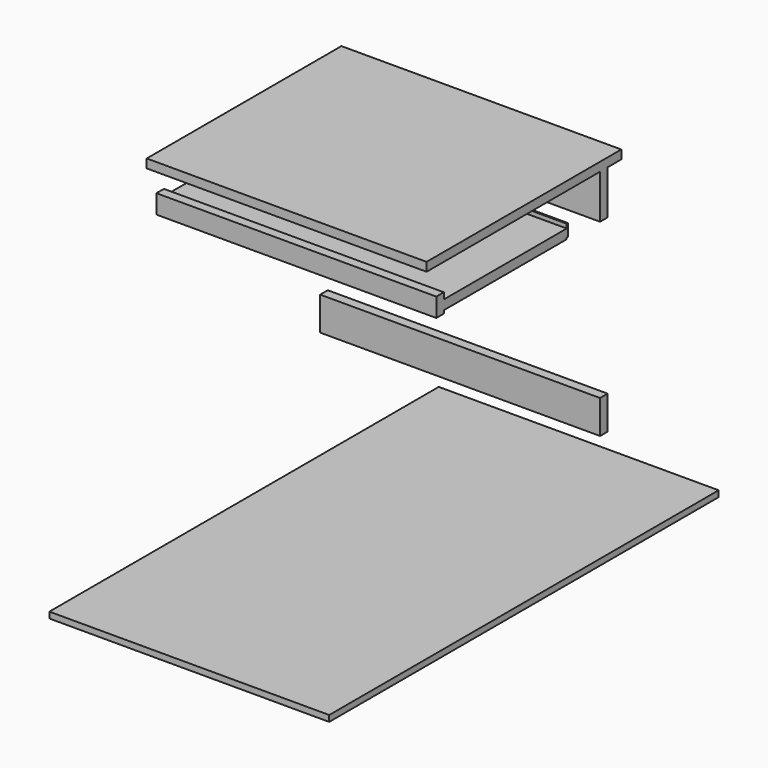
from build123d import *

# Parameters (mm, degrees)
F0_W     = 19.812
F0_H     = 69.85
F0_W_2   = 1016
F0_H_2   = 12.7
F1_DEPTH = 292.1


with BuildPart() as f1:
    # F0 (on Right) → F1 (new body, symmetric)
    with BuildSketch(Plane.YZ):
        with Locations((208.534, -450.85)):
            Rectangle(F0_W, F0_H)
        Polygon((111.633, -85.725), (111.633, -69.088), (-209.042, -69.088), (-209.042, -88.9), (111.633, -88.9), align=None)
        with Locations((0, -717.55)):
            Rectangle(F0_W_2, F0_H_2)
        Polygon((218.44, 0), (254, 0), (254, 18.288), (-254, 18.288), (-254, 0), (198.628, 0), align=None)
        Polygon((218.44, -92.075), (218.44, 0), (198.628, 0), (198.628, -8.89), (198.628, -69.215), (198.628, -92.075), align=None)
        Polygon((-209.042, -88.9), (-209.042, -69.088), (-209.042, -55.88), (-228.6, -55.88), (-228.6, -95.25), (-209.042, -95.25), align=None)
        Polygon((111.633, -60.325), (111.633, -69.088), (111.633, -85.725), (114.808, -85.725), (114.808, -60.325), align=None)
    extrude(amount=F1_DEPTH, both=True)


solid = f1.part
